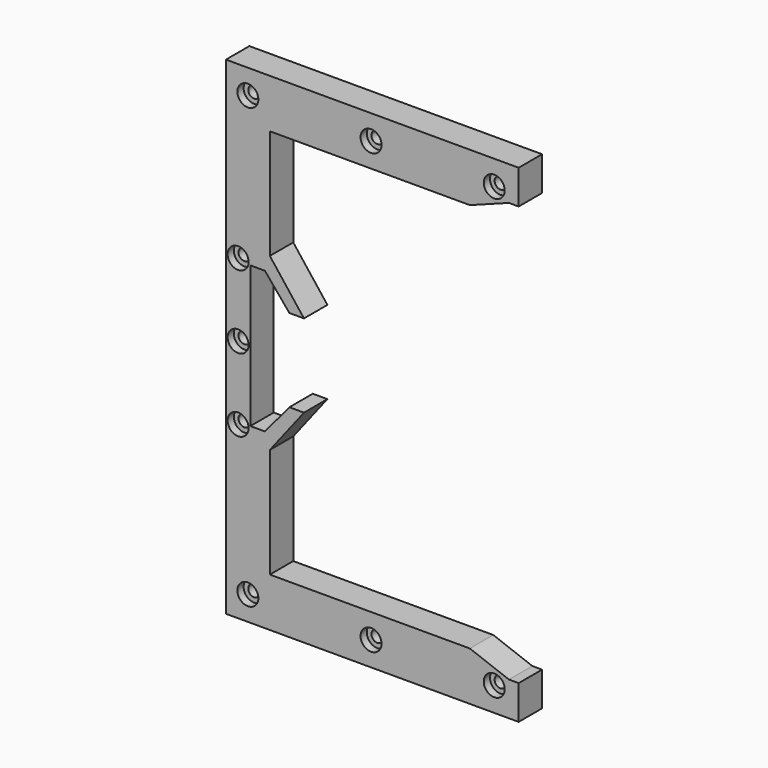
from build123d import *

# Parameters (mm, degrees)
PAD_DEPTH           = 6
HOLE_D              = 2.4
HOLE_CBORE_D        = 4.3
HOLE_CBORE_DEPTH    = 1.6
HOLE001_D           = 2.4
HOLE001_CBORE_D     = 4.3
HOLE001_CBORE_DEPTH = 1.6


with BuildPart() as part:
    # Sketch001 → Pad (new body)
    with BuildSketch(Plane(origin=(-8.845912, -9.712389, 7.5), x_dir=(1, 0, 0), z_dir=(0, 1, 0))):
        Polygon((3.85, 8.5), (-1.15, 14.5), (-4.15, 14.5), (-4.15, -14.5), (-1.15, -14.5), (3.85, -8.5), (6.85, -8.5), (-0.15, -17.5), (-0.15, -40), (40.85, -40), (48.85, -43), (50.85, -43), (50.85, -50), (-9.15, -50), (-9.15, -17.5), (-9.15, 17.5), (-9.15, 50), (50.85, 50), (50.85, 43), (48.85, 43), (40.85, 40), (-0.15, 40), (-0.15, 17.5), (6.85, 8.5), align=None)
    extrude(amount=PAD_DEPTH)

    # Hole (through all)
    with Locations(Plane(origin=(-8.845912, -9.712389, 7.5), x_dir=(1, 0, 0), z_dir=(0, -1, 0))):
        with Locations((-6.654088, 0), (-6.654088, 15), (-6.654088, -15)):
            CounterBoreHole(HOLE_D / 2, HOLE_CBORE_D / 2, HOLE_CBORE_DEPTH)

    # Hole001 (through all)
    with Locations(Plane(origin=(-8.845912, -9.712389, 7.5), x_dir=(1, 0, 0), z_dir=(0, -1, 0))):
        with Locations((20.595912, 44.973288), (20.595912, -45.026712), (-4.654088, -45.026712), (45.845912, -45.026712), (-4.654088, 44.973288), (45.845912, 44.973288)):
            CounterBoreHole(HOLE001_D / 2, HOLE001_CBORE_D / 2, HOLE001_CBORE_DEPTH)


solid = part.part
